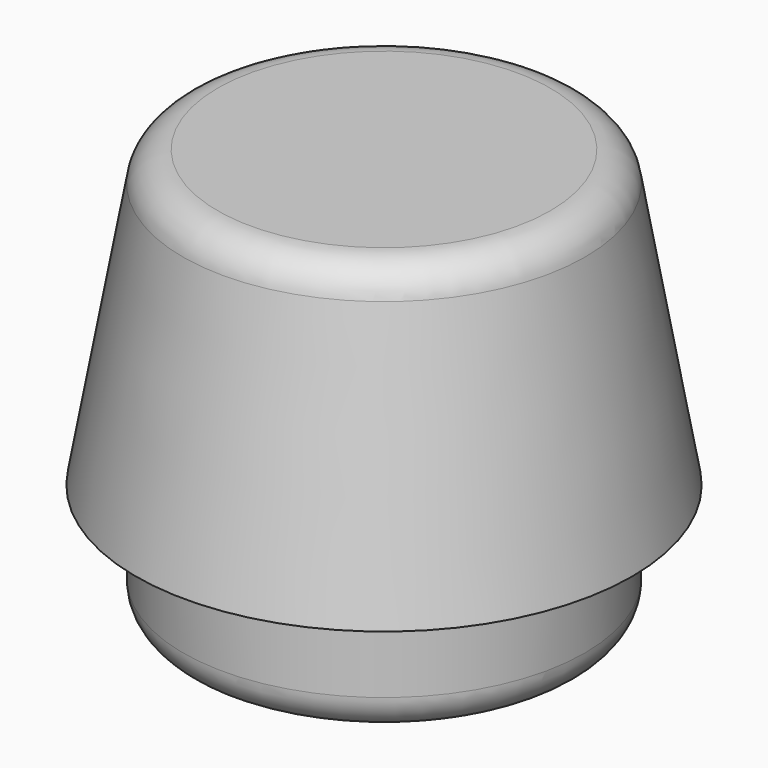
from build123d import *

# Parameters (mm, degrees)
F0_R     = 17
F1_DEPTH = 10
F2_R     = 21
F3_DEPTH = 25
F3_TAPER = 10
F4_R     = 3


with BuildPart() as f1:
    # F0 (on Top) → F1 (new body)
    with BuildSketch(Plane.XY):
        Circle(F0_R)
    extrude(amount=F1_DEPTH)

    # F2 (on face) → F3 (join)
    with BuildSketch(Plane.XY.offset(10)):
        Circle(F2_R)
    extrude(amount=F3_DEPTH, taper=F3_TAPER)

    # F4
    f4_edges = [f1.edges().sort_by_distance(p)[0] for p in [
        (-16.591825, 0, 35),
        (-17, 0, 0),
    ]]
    fillet(f4_edges, radius=F4_R)


solid = f1.part
